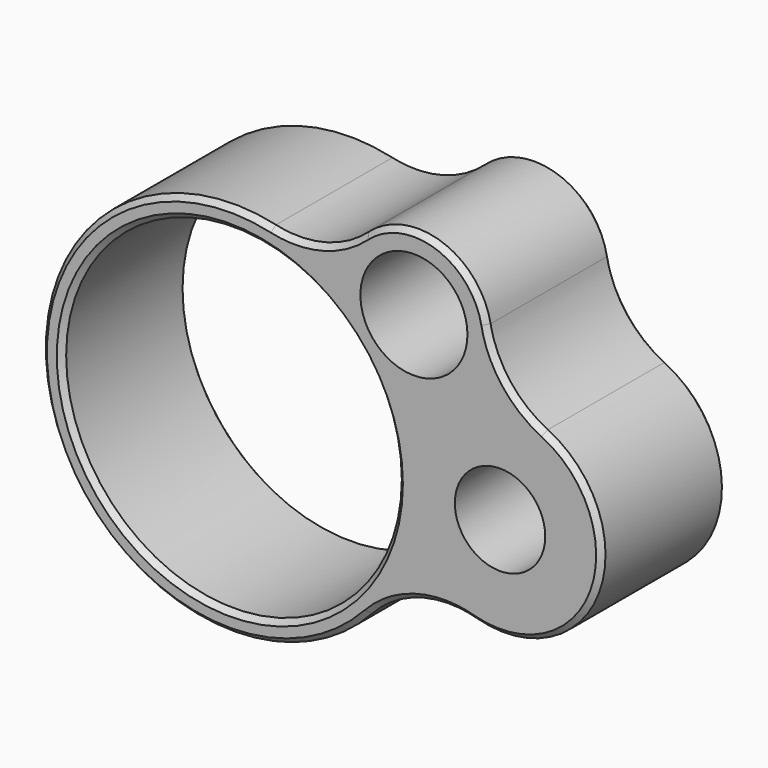
from build123d import *

# Parameters (mm, degrees)
F0_R     = 16.15
F0_R_2   = 4.35
F0_R_3   = 5.15
F1_DEPTH = 15
F2_R     = 10
F3_SIZE  = 0.5


with BuildPart() as f1:
    # F0 (on Front) → F1 (new body)
    with BuildSketch(Plane.XZ):
        with BuildLine():
            ThreePointArc((17.472067, -4.726189), (35.382893, -2.650248), (21.204868, 8.489359))
            ThreePointArc((21.204868, 8.489359), (21.28794, 20.805684), (10.613035, 14.661974))
            ThreePointArc((10.613035, 14.661974), (-17.063659, -6.036683), (17.472067, -4.726189))
        make_face()
        Circle(F0_R, mode=Mode.SUBTRACT)
        with Locations((26, 0)):
            Circle(F0_R_2, mode=Mode.SUBTRACT)
        with Locations((17.713029, 14.671353)):
            Circle(F0_R_3, mode=Mode.SUBTRACT)
        with BuildLine():
            ThreePointArc((17.472067, -4.726189), (35.382893, -2.650248), (21.204868, 8.489359))
            ThreePointArc((21.204868, 8.489359), (21.28794, 20.805684), (10.613035, 14.661974))
            ThreePointArc((10.613035, 14.661974), (-17.063659, -6.036683), (17.472067, -4.726189))
        make_face()
        Circle(F0_R, mode=Mode.SUBTRACT)
        with Locations((26, 0)):
            Circle(F0_R_2, mode=Mode.SUBTRACT)
        with Locations((17.713029, 14.671353)):
            Circle(F0_R_3, mode=Mode.SUBTRACT)
    extrude(amount=-F1_DEPTH)

    # F2
    f2_edges = [f1.edges().sort_by_distance(p)[0] for p in [
        (10.613035, 7.5, 14.661974),
        (21.204868, 7.5, 8.489359),
        (17.472067, 7.5, -4.726189),
    ]]
    fillet(f2_edges, radius=F2_R)

    # F3
    f3_edges = [f1.edges().sort_by_distance(p)[0] for p in [
        (-17.286785, 0, -5.364427),
        (-17.286785, 15, -5.364427),
        (-16.15, 15, 0),
        (-16.15, 0, 0),
    ]]
    chamfer(f3_edges, length=F3_SIZE)


solid = f1.part
